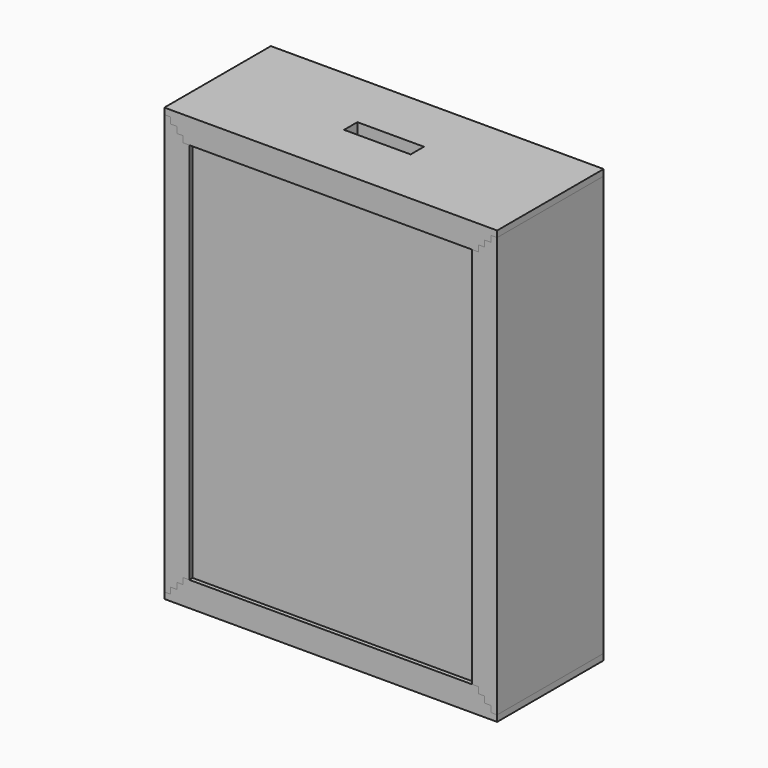
from build123d import *

# Parameters (mm, degrees)
F1_DEPTH      = 95.25
F1_DEPTH_BACK = 6.35
F2_DEPTH      = 95.25
F2_DEPTH_BACK = 6.35
F3_DEPTH      = 3.175
F4_DEPTH      = 2.921
F5_W          = 50.8
F5_H          = 12.7
F6_DEPTH      = 25.4


with BuildPart() as f1:
    # F0 (on Front) → F1 (new body, two sides)
    with BuildSketch(Plane.XZ) as f1_sk:
        Polygon((-117.475, -150.8125), (-114.3, -150.8125), (-114.3, 150.8125), (-117.475, 150.8125), (-117.475, 155.575), (-122.2375, 155.575), (-122.2375, 160.3375), (-127, 160.3375), (-127, 0), (-127, -160.3375), (-122.2375, -160.3375), (-122.2375, -155.575), (-117.475, -155.575), align=None)
        Polygon((-107.95, -146.05), (-107.95, 0), (-107.95, 146.05), (-112.7125, 146.05), (-112.7125, 150.8125), (-114.3, 150.8125), (-114.3, -150.8125), (-112.7125, -150.8125), (-112.7125, -146.05), align=None)
    extrude(amount=-F1_DEPTH)
    extrude(f1_sk.sketch, amount=F1_DEPTH_BACK)


with BuildPart() as f1b:
    # F0 (on Front) → F1, piece 2 (new body, two sides)
    with BuildSketch(Plane.XZ) as f1_2_sk:
        Polygon((114.3, 150.8125), (114.3, -150.8125), (117.475, -150.8125), (117.475, -155.575), (122.2375, -155.575), (122.2375, -160.3375), (127, -160.3375), (127, 0), (127, 160.3375), (122.2375, 160.3375), (122.2375, 155.575), (117.475, 155.575), (117.475, 150.8125), align=None)
        Polygon((107.95, 0), (107.95, -146.05), (112.7125, -146.05), (112.7125, -150.8125), (114.3, -150.8125), (114.3, 150.8125), (112.7125, 150.8125), (112.7125, 146.05), (107.95, 146.05), align=None)
    extrude(amount=-F1_DEPTH)
    extrude(f1_2_sk.sketch, amount=F1_DEPTH_BACK)


with BuildPart() as f2:
    # F0 (on Front) → F2 (new body, two sides)
    with BuildSketch(Plane.XZ) as f2_sk:
        Polygon((-117.475, 150.8125), (-114.3, 150.8125), (-114.3, 152.4), (114.3, 152.4), (114.3, 150.8125), (117.475, 150.8125), (117.475, 155.575), (122.2375, 155.575), (122.2375, 160.3375), (127, 160.3375), (127, 165.1), (0, 165.1), (-127, 165.1), (-127, 160.3375), (-122.2375, 160.3375), (-122.2375, 155.575), (-117.475, 155.575), align=None)
        Polygon((-112.7125, 146.05), (-107.95, 146.05), (0, 146.05), (107.95, 146.05), (112.7125, 146.05), (112.7125, 150.8125), (114.3, 150.8125), (114.3, 152.4), (-114.3, 152.4), (-114.3, 150.8125), (-112.7125, 150.8125), align=None)
    extrude(amount=-F2_DEPTH)
    extrude(f2_sk.sketch, amount=F2_DEPTH_BACK)


with BuildPart() as f2b:
    # F0 (on Front) → F2, piece 2 (new body, two sides)
    with BuildSketch(Plane.XZ) as f2_2_sk:
        Polygon((0, -146.05), (-107.95, -146.05), (-112.7125, -146.05), (-112.7125, -150.8125), (-114.3, -150.8125), (-114.3, -152.4), (114.3, -152.4), (114.3, -150.8125), (112.7125, -150.8125), (112.7125, -146.05), (107.95, -146.05), align=None)
        Polygon((-114.3, -152.4), (-114.3, -150.8125), (-117.475, -150.8125), (-117.475, -155.575), (-122.2375, -155.575), (-122.2375, -160.3375), (-127, -160.3375), (-127, -165.1), (0, -165.1), (127, -165.1), (127, -160.3375), (122.2375, -160.3375), (122.2375, -155.575), (117.475, -155.575), (117.475, -150.8125), (114.3, -150.8125), (114.3, -152.4), align=None)
    extrude(amount=-F2_DEPTH)
    extrude(f2_2_sk.sketch, amount=F2_DEPTH_BACK)


with BuildPart() as f3_tool:
    # F0 (on Front) → F3 (new body, symmetric)
    with BuildSketch(Plane.XZ):
        Polygon((0, -146.05), (-107.95, -146.05), (-112.7125, -146.05), (-112.7125, -150.8125), (-114.3, -150.8125), (-114.3, -152.4), (114.3, -152.4), (114.3, -150.8125), (112.7125, -150.8125), (112.7125, -146.05), (107.95, -146.05), align=None)
        Polygon((-107.95, -146.05), (-107.95, 0), (-107.95, 146.05), (-112.7125, 146.05), (-112.7125, 150.8125), (-114.3, 150.8125), (-114.3, -150.8125), (-112.7125, -150.8125), (-112.7125, -146.05), align=None)
        Polygon((107.95, 0), (107.95, -146.05), (112.7125, -146.05), (112.7125, -150.8125), (114.3, -150.8125), (114.3, 150.8125), (112.7125, 150.8125), (112.7125, 146.05), (107.95, 146.05), align=None)
        Polygon((-112.7125, 146.05), (-107.95, 146.05), (0, 146.05), (107.95, 146.05), (112.7125, 146.05), (112.7125, 150.8125), (114.3, 150.8125), (114.3, 152.4), (-114.3, 152.4), (-114.3, 150.8125), (-112.7125, 150.8125), align=None)
    extrude(amount=F3_DEPTH, both=True)


with BuildPart() as f1_1:
    add(f1.part)

    # F3: cut by f3_tool
    add(f3_tool.part, mode=Mode.SUBTRACT)


with BuildPart() as f1b_1:
    add(f1b.part)

    # F3: cut by f3_tool
    add(f3_tool.part, mode=Mode.SUBTRACT)


with BuildPart() as f2_1:
    add(f2.part)

    # F3: cut by f3_tool
    add(f3_tool.part, mode=Mode.SUBTRACT)

    # F5 (on face) → F6 (cut)
    with BuildSketch(Plane.XY.offset(165.1)):
        with Locations((0, 44.45)):
            Rectangle(F5_W, F5_H)
    extrude(amount=-F6_DEPTH, mode=Mode.SUBTRACT)


with BuildPart() as f2b_1:
    add(f2b.part)

    # F3: cut by f3_tool
    add(f3_tool.part, mode=Mode.SUBTRACT)


with BuildPart() as f4:
    # F0 (on Front) → F4 (new body, symmetric)
    with BuildSketch(Plane.XZ):
        Polygon((-107.95, -146.05), (-107.95, 0), (-107.95, 146.05), (-112.7125, 146.05), (-112.7125, 150.8125), (-114.3, 150.8125), (-114.3, -150.8125), (-112.7125, -150.8125), (-112.7125, -146.05), align=None)
        Polygon((-107.95, 146.05), (-107.95, 0), (-107.95, -146.05), (0, -146.05), (107.95, -146.05), (107.95, 0), (107.95, 146.05), (0, 146.05), align=None)
        Polygon((-112.7125, 146.05), (-107.95, 146.05), (0, 146.05), (107.95, 146.05), (112.7125, 146.05), (112.7125, 150.8125), (114.3, 150.8125), (114.3, 152.4), (-114.3, 152.4), (-114.3, 150.8125), (-112.7125, 150.8125), align=None)
        Polygon((107.95, 0), (107.95, -146.05), (112.7125, -146.05), (112.7125, -150.8125), (114.3, -150.8125), (114.3, 150.8125), (112.7125, 150.8125), (112.7125, 146.05), (107.95, 146.05), align=None)
        Polygon((0, -146.05), (-107.95, -146.05), (-112.7125, -146.05), (-112.7125, -150.8125), (-114.3, -150.8125), (-114.3, -152.4), (114.3, -152.4), (114.3, -150.8125), (112.7125, -150.8125), (112.7125, -146.05), (107.95, -146.05), align=None)
    extrude(amount=F4_DEPTH, both=True)


solid = Compound([f1_1.part, f1b_1.part, f2_1.part, f2b_1.part, f4.part])
